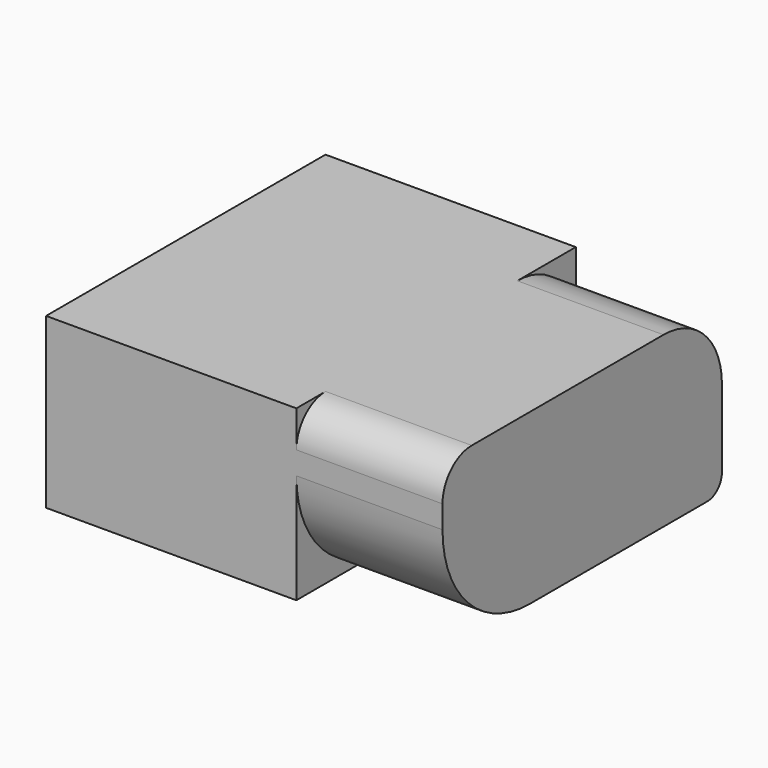
from build123d import *

# Parameters (mm, degrees)
F0_W     = 43.5045808554
F0_H     = 29.3690226972
F1_DEPTH = 60.706
F3_DEPTH = 25.4


with BuildPart() as f1:
    # F0 (on Front) → F1 (new body)
    with BuildSketch(Plane.XZ):
        with Locations((21.7522904277, -14.6845113486)):
            Rectangle(F0_W, F0_H)
    extrude(amount=F1_DEPTH)

    # F2 (on face) → F3 (join)
    with BuildSketch(Plane.YZ.offset(43.5045808554)):
        with BuildLine():
            ThreePointArc((-3.175, -29.3690226972), (-0.9299359697, -28.4390867275), (0, -26.1940226972))
            Line((0, -26.1940226972), (0, -12.7))
            ThreePointArc((0, -12.7), (-3.7197438789, -3.7197438789), (-12.7, 0))
            Line((-12.7, 0), (-54.356, 0))
            ThreePointArc((-54.356, 0), (-58.8461280605, -1.8598719395), (-60.706, -6.35))
            Line((-60.706, -6.35), (-60.706, -10.3190226972))
            ThreePointArc((-60.706, -10.3190226972), (-55.1263841816, -23.7894068788), (-41.656, -29.3690226972))
            Line((-41.656, -29.3690226972), (-3.175, -29.3690226972))
        make_face()
    extrude(amount=F3_DEPTH)


solid = f1.part
